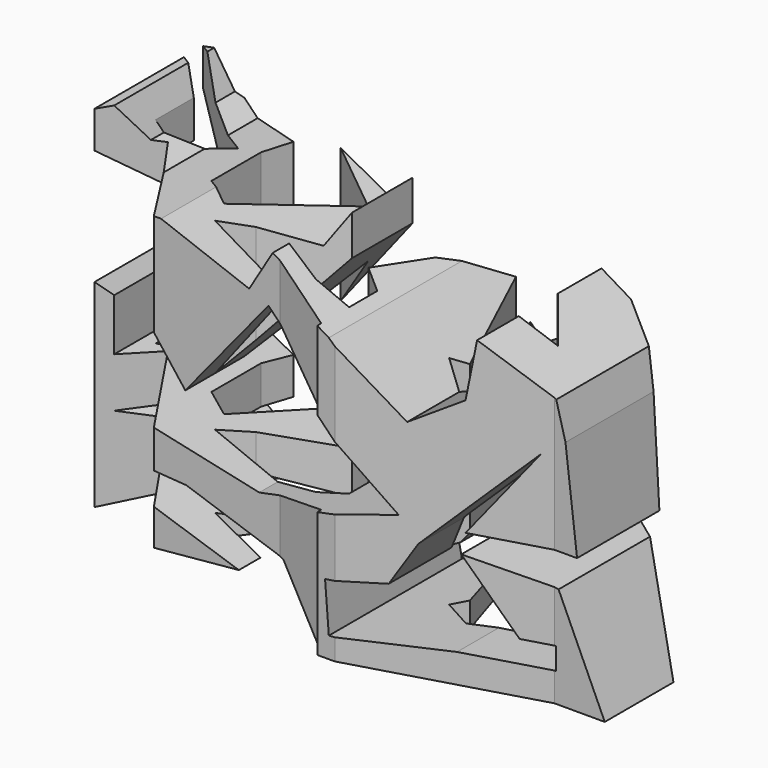
from build123d import *

# Parameters (mm, degrees)
F0_W     = 66.387452
F0_H     = 42.399473
F1_DEPTH = 25.4
F3_DEPTH = 25.4
F5_DEPTH = 76.2


with BuildPart() as f1:
    # F0 (on Front) → F1 (new body)
    with BuildSketch(Plane.XZ):
        with Locations((-33.193726, -21.199737)):
            Rectangle(F0_W, F0_H)
    extrude(amount=F1_DEPTH)

    # F2 (on Front) → F3 (cut)
    with BuildSketch(Plane.XZ):
        Polygon((-46.203654, -21.825017), (-63.001782, 0), (-65.012503, 5.034372), (-70.033558, -3.334053), (-73.549449, -26.512869), (-68.861596, -47.868628), (4.320954, -51.775172), (4.320954, 2.265323), (-49.068451, 6.822956), (-58.834806, 0), (-57.034733, -4.023443), (-54.277174, -5.677978), (-48.938233, -5.677978), (-39.007191, -9.396854), (-36.35304, -4.97327), (-28.233562, -9.844957), (-20.941351, -16.616296), (-15.602409, -13.360844), (-14.545345, -7.171656), (-7.268454, -11.537791), (-6.22671, -15.444333), (-4.924529, -26.512869), (-9.48216, -26.512869), (-15.602409, -26.512869), (-8.700852, -17.267385), (-19.922584, -28.504438), (-22.634184, -33.023771), (-28.655621, -33.91768), (-28.233562, -39.404456), (-16.383717, -38.492929), (-7.268454, -38.492929), (-7.268454, -36.018785), (-10.654123, -36.018785), (-15.993064, -28.726576), (-7.008018, -30.289192), (-1.799294, -41.748382), (-21.852877, -41.748382), (-29.535742, -41.748382), (-35.004903, -34.977041), (-46.073437, -31.200718), (-58.834806, -30.289192), (-54.277174, -33.023771), (-40.166351, -37.69498), (-61.178733, -39.664891), (-63.132003, -18.830003), (-63.132003, -11.537791), (-58.834806, -18.830003), (-58.834806, -24.689816), (-37.869699, -29.247446), (-21.722659, -25.991997), (-36.827955, -10.365828), align=None)
    extrude(amount=F3_DEPTH, mode=Mode.SUBTRACT)

    # F4 (on face) → F5 (cut)
    with BuildSketch(Plane(origin=(0, 0, -41.748382), x_dir=(1, 0, 0), z_dir=(0, 0, -1))):
        Polygon((-29.535742, 25.4), (-27.561743, 25.4), (-1.799294, 25.4), (-1.799294, 19.556552), (6.774909, 21.355854), (-6.419962, 42.797517), (-57.250202, 37.549559), (-91.586851, 32.45154), (-74.493498, -16.579399), (13.822168, -14.630158), (6.774909, 8.160982), (-1.799294, 9.873348), (-1.799294, 0), (-29.535742, 0), (-29.535742, 8.76075), (-31.498195, 15.738511), (-29.535742, 16.946173), (-29.535742, 20.91053), (-32.809701, 21.505795), (-46.218223, 18.956786), (-43.755446, 16.257836), (-37.008069, 11.159817), (-37.008069, 2.61314), (-46.218223, 1.235993), (-40.119521, 4.98904), (-47.187853, 16.47508), (-49.977429, 14.758418), (-49.977429, 7.751942), (-49.003407, 4.412441), (-56.200609, 2.313257), (-59.799209, 3.662731), (-52.00224, 8.460866), (-57.598993, 13.10906), (-57.598993, 7.715662), (-59.799209, 6.361682), (-59.799209, 13.10906), (-59.799209, 18.956786), (-56.200609, 13.10906), (-49.753115, 23.155155), (-35.508655, 23.155155), (-29.535742, 24.842384), align=None)
        Polygon((-27.561743, 25.4), (-7.469554, 19.556552), (-1.799294, 19.556552), (-1.799294, 25.4), align=None)
        Polygon((-1.799294, 0), (-1.799294, 9.873348), (-11.218095, 4.077162), (-22.614953, 4.077162), (-16.466055, 7.861099), (-10.918212, 14.758418), (-19.439298, 17.05967), (-23.178832, 14.758418), (-22.163842, 13.10906), (-25.585411, 2.341461), (-29.535742, 8.76075), (-29.535742, 0), align=None)
    extrude(amount=-F5_DEPTH, mode=Mode.SUBTRACT)


solid = f1.part
